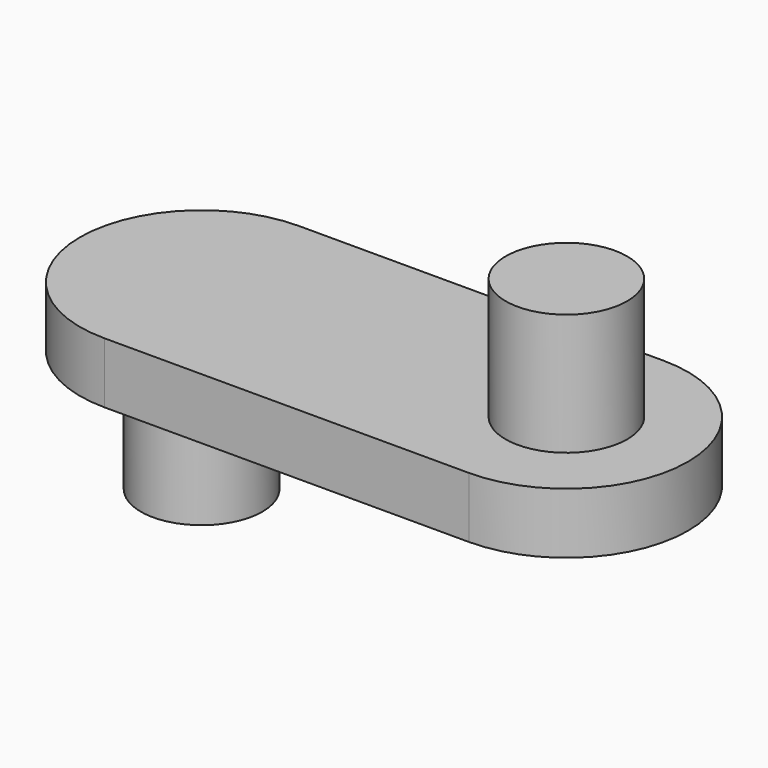
from build123d import *

# Parameters (mm, degrees)
F1_DEPTH = 5
F2_R     = 5
F3_DEPTH = 10
F4_R     = 5
F5_DEPTH = 10


with BuildPart() as f1:
    # F0 (on Top) → F1 (new body)
    with BuildSketch(Plane.XY):
        with BuildLine():
            Line((15.510039, 29.993525), (-14.489961, 29.993525))
            ThreePointArc((-14.489961, 29.993525), (-24.489961, 19.993525), (-14.489961, 9.993525))
            Line((-14.489961, 9.993525), (15.510039, 9.993525))
            ThreePointArc((15.510039, 9.993525), (25.510039, 19.993525), (15.510039, 29.993525))
        make_face()
    extrude(amount=F1_DEPTH)

    # F2 (on face) → F3 (join)
    with BuildSketch(Plane(origin=(0, 0, 0), x_dir=(1, 0, 0), z_dir=(0, 0, -1))):
        with Locations((-14.489961, -19.993525)):
            Circle(F2_R)
    extrude(amount=F3_DEPTH)

    # F4 (on face) → F5 (join)
    with BuildSketch(Plane.XY.offset(5)):
        with Locations((15.510039, 19.993525)):
            Circle(F4_R)
    extrude(amount=F5_DEPTH)


solid = f1.part
